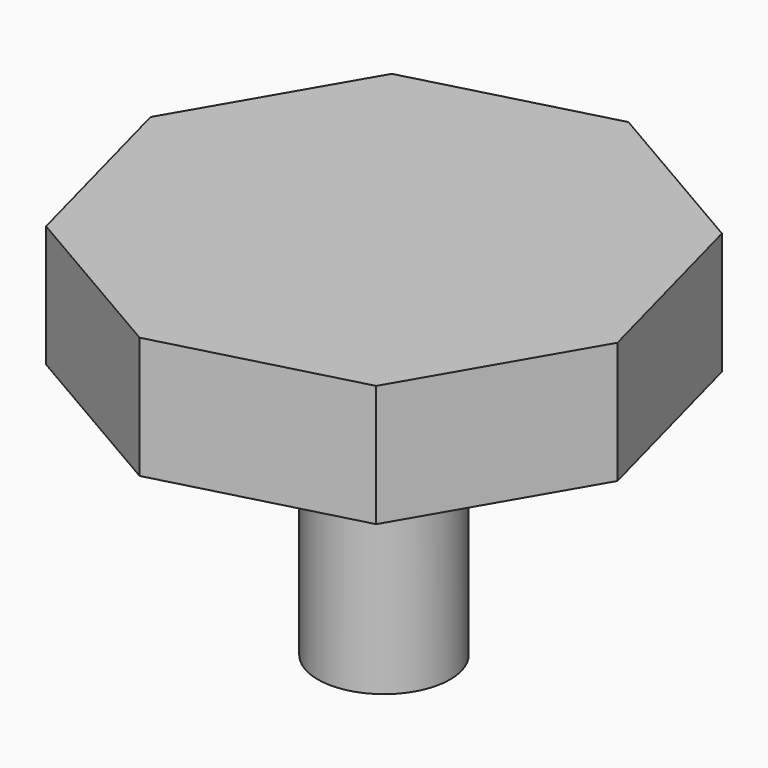
from build123d import *

# Parameters (mm, degrees)
F0_R     = 2.175
F1_DEPTH = 8.3
F2_R     = 2.175
F3_DEPTH = 4


with BuildPart() as f1:
    # F0 (on Top) → F1 (new body)
    with BuildSketch(Plane.XY):
        Circle(F0_R)
    extrude(amount=F1_DEPTH)

    # F2 (on face) → F3 (join)
    with BuildSketch(Plane.XY.offset(8.3)):
        Polygon((5.26072, -6.895255), (8.595572, -1.15579), (6.895255, 5.26072), (1.15579, 8.595572), (-5.26072, 6.895255), (-8.595572, 1.15579), (-6.895255, -5.26072), (-1.15579, -8.595572), align=None)
        Circle(F2_R, mode=Mode.SUBTRACT)
        Circle(F2_R)
    extrude(amount=F3_DEPTH)


solid = f1.part
